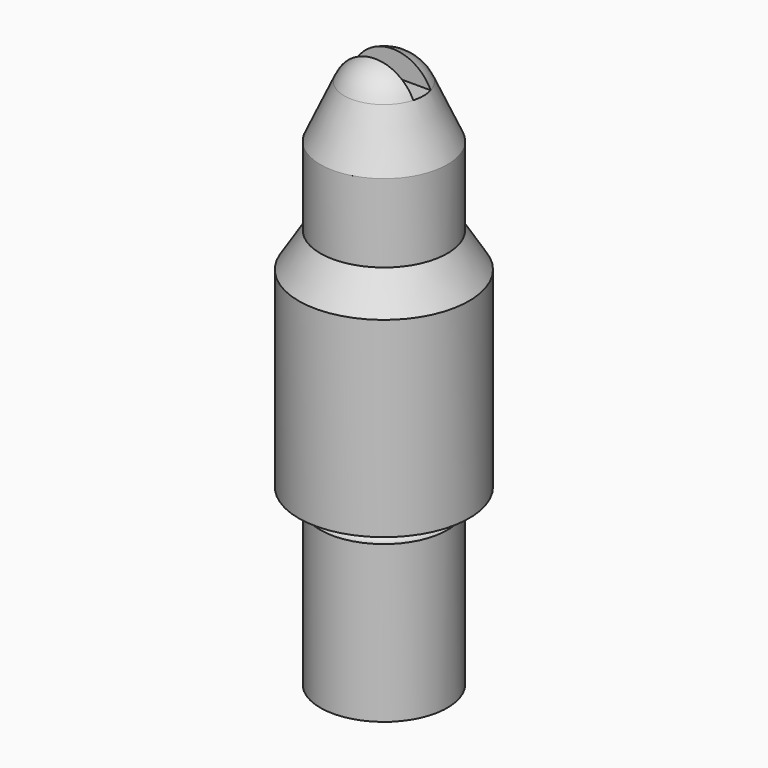
from build123d import *

# Parameters (mm, degrees)
F3_DEPTH = 1.5875


with BuildPart() as f1:
    # F0 (on Front) → F1 (revolve)
    with BuildSketch(Plane.XZ):
        with BuildLine():
            Line((-9.271, 0), (0, 0))
            Line((0, 0), (0, 81.28))
            ThreePointArc((0, 81.28), (-3.4416218032, 80.2664538191), (-5.7845845089, 77.5493667287))
            Line((-5.7845845089, 77.5493667287), (-9.271, 69.85))
            Line((-9.271, 69.85), (-9.271, 58.42))
            Line((-9.271, 58.42), (-12.446, 53.34))
            Line((-12.446, 53.34), (-12.446, 25.4))
            Line((-12.446, 25.4), (-9.271, 25.4))
            ThreePointArc((-9.271, 25.4), (-8.001, 24.13), (-9.271, 22.86))
            Line((-9.271, 22.86), (-9.271, 0))
        make_face()
    revolve(axis=Axis((0, 0, 40.64), (0, 0, 1)))

    # F2 (on Front) → F3 (cut, symmetric)
    with BuildSketch(Plane.XZ):
        with BuildLine():
            Line((-5.7845845089, 77.5493667287), (5.7845845089, 77.5493667287))
            ThreePointArc((5.7845845089, 77.5493667287), (3.4416218032, 80.2664538191), (0, 81.28))
            ThreePointArc((0, 81.28), (-3.4416218032, 80.2664538191), (-5.7845845089, 77.5493667287))
        make_face()
    extrude(amount=F3_DEPTH, both=True, mode=Mode.SUBTRACT)


solid = f1.part
